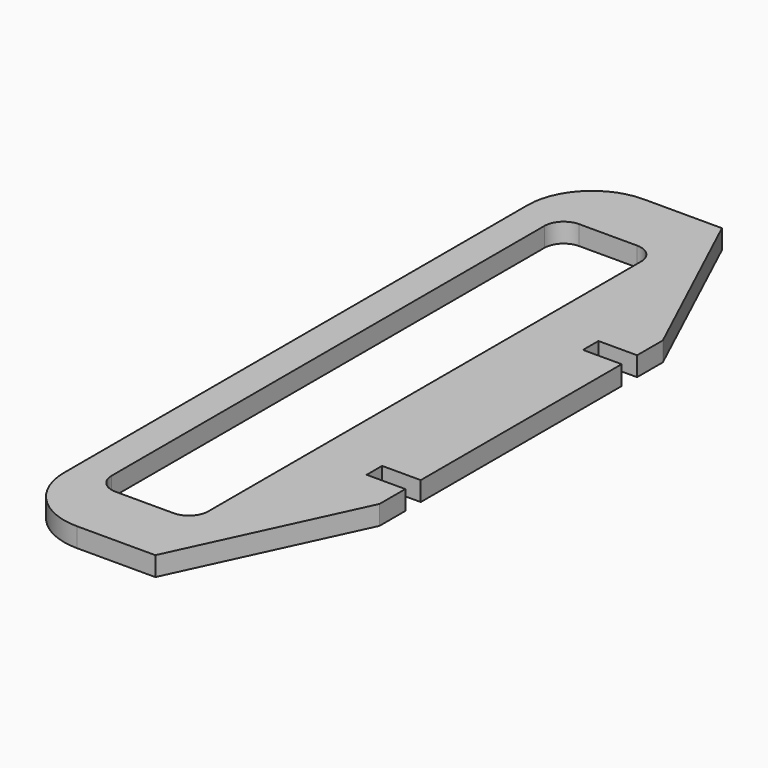
from build123d import *

# Parameters (mm, degrees)
F1_DEPTH = 3


with BuildPart() as f1:
    # F0 (on Top) → F1 (new body)
    with BuildSketch(Plane.XY):
        with BuildLine():
            Line((-35, 45), (-35, 0))
            Line((-35, 0), (-35, -45))
            ThreePointArc((-35, -45), (-32.071068, -52.071068), (-25, -55))
            Line((-25, -55), (-12.823461, -55))
            Line((-12.823461, -55), (0, -27.5))
            Line((0, -27.5), (0, -22.5))
            Line((0, -22.5), (-6, -22.5))
            Line((-6, -22.5), (-6, -19.5))
            Line((-6, -19.5), (0, -19.5))
            Line((0, -19.5), (0, 0))
            Line((0, 0), (0, 19.5))
            Line((0, 19.5), (-6, 19.5))
            Line((-6, 19.5), (-6, 22.5))
            Line((-6, 22.5), (0, 22.5))
            Line((0, 22.5), (0, 27.5))
            Line((0, 27.5), (-12.823461, 55))
            Line((-12.823461, 55), (-25, 55))
            ThreePointArc((-25, 55), (-32.071068, 52.071068), (-35, 45))
        make_face()
        with BuildLine():
            Line((-18, -45), (-27, -45))
            ThreePointArc((-27, -45), (-29.12132, -44.12132), (-30, -42))
            Line((-30, -42), (-30, 0))
            Line((-30, 0), (-30, 42))
            ThreePointArc((-30, 42), (-29.12132, 44.12132), (-27, 45))
            Line((-27, 45), (-18, 45))
            ThreePointArc((-18, 45), (-15.87868, 44.12132), (-15, 42))
            Line((-15, 42), (-15, 0))
            Line((-15, 0), (-15, -42))
            ThreePointArc((-15, -42), (-15.87868, -44.12132), (-18, -45))
        make_face(mode=Mode.SUBTRACT)
    extrude(amount=F1_DEPTH)


solid = f1.part
